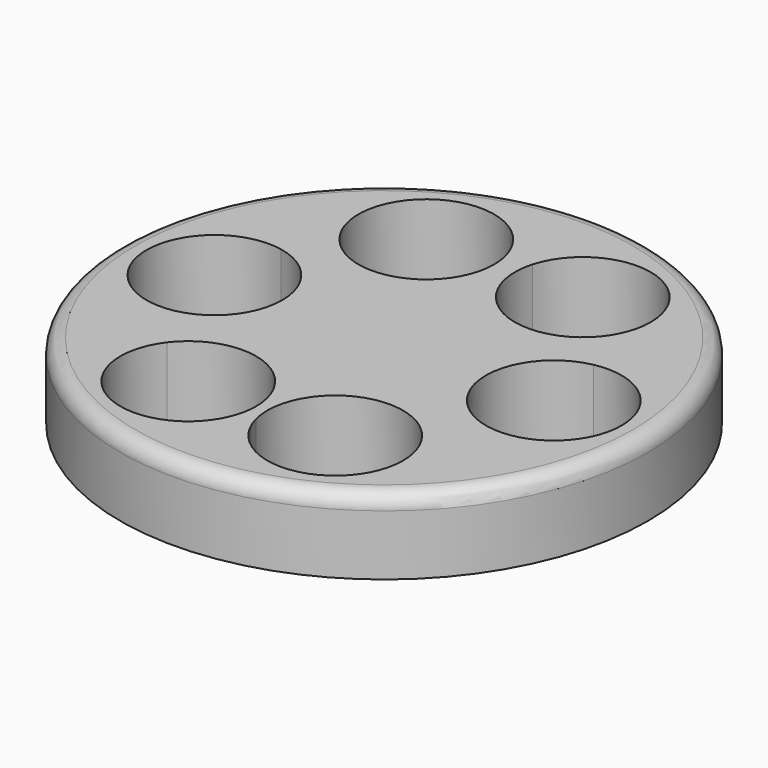
from build123d import *

# Parameters (mm, degrees)
F0_R     = 35
F1_DEPTH = 10
F2_R     = 2


with BuildPart() as f1:
    # F0 (on Top) → F1 (new body)
    with BuildSketch(Plane.XY):
        Circle(F0_R)
        with BuildLine():
            ThreePointArc((17.3698096203, 14.3017381376), (19.2313546065, 11.6792551132), (20.7, 8.818163074))
            ThreePointArc((20.7, 8.818163074), (28.1920997883, 6.9713700232), (31.5, 0))
            ThreePointArc((31.5, 0), (28.1920997883, -6.9713700232), (20.7, -8.818163074))
            ThreePointArc((20.7, -8.818163074), (19.045931324, -11.9792528982), (16.9129987609, -14.839153376))
            ThreePointArc((16.9129987609, -14.839153376), (18.2741398317, -17.409907743), (18.7442222222, -20.2805358234))
            ThreePointArc((18.7442222222, -20.2805358234), (10.8508683157, -29.2122397159), (1.016370128, -22.4770325391))
            ThreePointArc((1.016370128, -22.4770325391), (0, -22.5), (-1.016370128, -22.4770325391))
            ThreePointArc((-1.016370128, -22.4770325391), (-13.6419111111, -28.3927501528), (-16.9129987609, -14.839153376))
            ThreePointArc((-16.9129987609, -14.839153376), (-19.045931324, -11.9792528982), (-20.7, -8.818163074))
            ThreePointArc((-20.7, -8.818163074), (-31.5, 0), (-20.7, 8.818163074))
            ThreePointArc((-20.7, 8.818163074), (-19.2313546065, 11.6792551132), (-17.3698096203, 14.3017381376))
            ThreePointArc((-17.3698096203, 14.3017381376), (-14.5251555556, 27.951204913), (-1.7203948242, 22.4341311766))
            ThreePointArc((-1.7203948242, 22.4341311766), (0, 22.5), (1.7203948242, 22.4341311766))
            ThreePointArc((1.7203948242, 22.4341311766), (11.6216169109, 28.8784074582), (19.3751111111, 19.9651463664))
            ThreePointArc((19.3751111111, 19.9651463664), (18.8589865988, 16.9611728797), (17.3698096203, 14.3017381376))
        make_face(mode=Mode.SUBTRACT)
        with BuildLine():
            ThreePointArc((20.7, -8.818163074), (13.5, 0), (20.7, 8.818163074))
            ThreePointArc((20.7, 8.818163074), (19.2313546065, 11.6792551132), (17.3698096203, 14.3017381376))
            ThreePointArc((17.3698096203, 14.3017381376), (6.2250666667, 11.9790878198), (1.7203948242, 22.4341311766))
            ThreePointArc((1.7203948242, 22.4341311766), (0, 22.5), (-1.7203948242, 22.4341311766))
            ThreePointArc((-1.7203948242, 22.4341311766), (-1.4618500193, 21.2116521662), (-1.3751111111, 19.9651463664))
            ThreePointArc((-1.3751111111, 19.9651463664), (-7.3711376244, 11.4812708787), (-17.3698096203, 14.3017381376))
            ThreePointArc((-17.3698096203, 14.3017381376), (-19.2313546065, 11.6792551132), (-20.7, 8.818163074))
            ThreePointArc((-20.7, 8.818163074), (-15.5286299768, 5.6920997883), (-13.5, 0))
            ThreePointArc((-13.5, 0), (-15.5286299768, -5.6920997883), (-20.7, -8.818163074))
            ThreePointArc((-20.7, -8.818163074), (-19.045931324, -11.9792528982), (-16.9129987609, -14.839153376))
            ThreePointArc((-16.9129987609, -14.839153376), (-6.8735941418, -11.750618214), (-0.7442222222, -20.2805358234))
            ThreePointArc((-0.7442222222, -20.2805358234), (-0.8125183297, -21.3871819169), (-1.016370128, -22.4770325391))
            ThreePointArc((-1.016370128, -22.4770325391), (0, -22.5), (1.016370128, -22.4770325391))
            ThreePointArc((1.016370128, -22.4770325391), (5.8465333333, -12.168321494), (16.9129987609, -14.839153376))
            ThreePointArc((16.9129987609, -14.839153376), (19.045931324, -11.9792528982), (20.7, -8.818163074))
        make_face()
    extrude(amount=F1_DEPTH)

    # F2
    f2_edges = [f1.edges().sort_by_distance(p)[0] for p in [
        (-35, 0, 10),
    ]]
    fillet(f2_edges, radius=F2_R)


solid = f1.part
